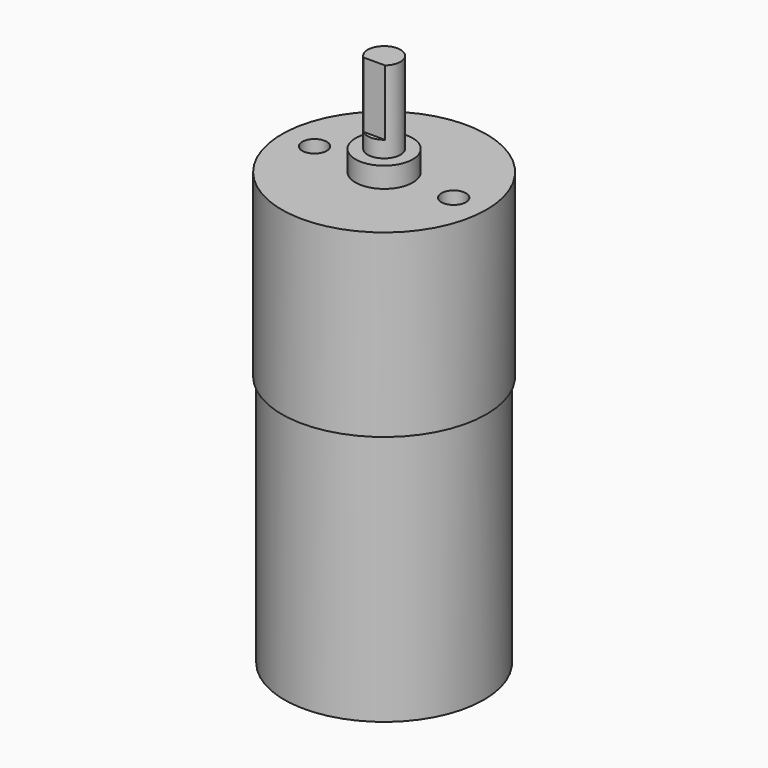
from build123d import *

# Parameters (mm, degrees)
F0_R      = 12.5
F1_DEPTH  = 22
F2_R      = 12.2
F3_DEPTH  = 30.8
F4_R      = 3.5
F5_DEPTH  = 2.5
F6_R      = 2
F7_DEPTH  = 12.5
F9_DEPTH  = 8
F10_R     = 1.5
F11_DEPTH = 4


with BuildPart() as f1:
    # F0 (on Top) → F1 (new body)
    with BuildSketch(Plane.XY):
        Circle(F0_R)
    extrude(amount=-F1_DEPTH)

    # F2 (on face) → F3 (join)
    with BuildSketch(Plane(origin=(0, 0, -22), x_dir=(1, 0, 0), z_dir=(0, 0, -1))):
        Circle(F2_R)
    extrude(amount=F3_DEPTH)

    # F4 (on face) → F5 (join)
    with BuildSketch(Plane.XY):
        Circle(F4_R)
    extrude(amount=F5_DEPTH)

    # F6 (on face) → F7 (join)
    with BuildSketch(Plane.XY):
        Circle(F6_R)
    extrude(amount=F7_DEPTH)

    # F8 (on face) → F9 (cut)
    with BuildSketch(Plane.XY.offset(12.5)):
        with BuildLine():
            Line((1.322876, -1.5), (-1.322876, -1.5))
            ThreePointArc((-1.322876, -1.5), (0, -2), (1.322876, -1.5))
        make_face()
    extrude(amount=-F9_DEPTH, mode=Mode.SUBTRACT)

    # F10 (on face) → F11 (cut)
    with BuildSketch(Plane.XY):
        with Locations((-8.5, 0)):
            Circle(F10_R)
        with Locations((8.5, 0)):
            Circle(F10_R)
    extrude(amount=-F11_DEPTH, mode=Mode.SUBTRACT)


solid = f1.part
